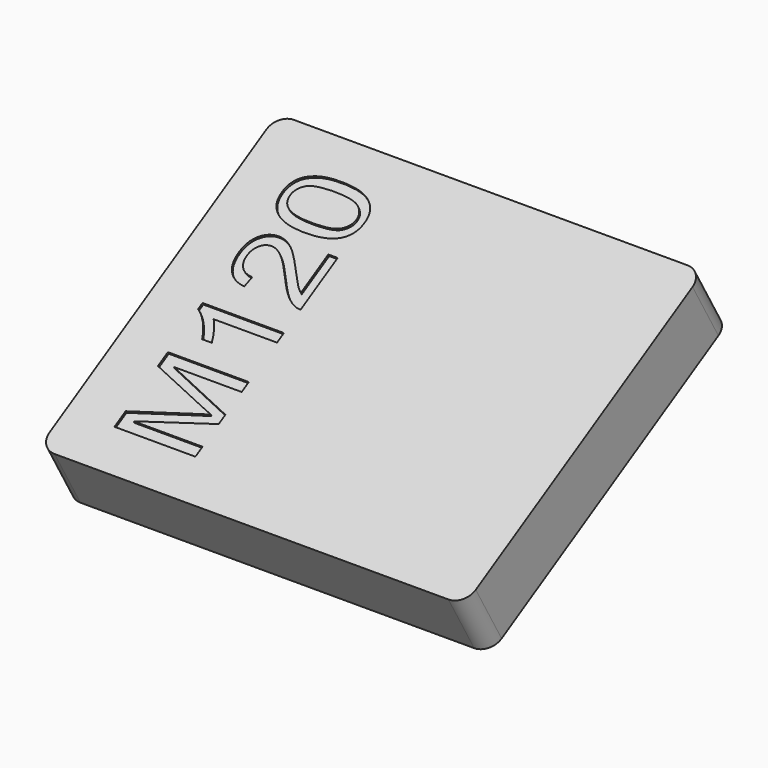
from build123d import *

# Parameters (mm, degrees)
PAD006_DEPTH            = 12
THICKNESS_T             = -1.6
POCKET005_DEPTH         = 0.4
BODY005_PLACEMENT_ANGLE = 30


with BuildPart() as part:
    # Sketch011 → Pad006 (new body)
    with BuildSketch(Plane.XY):
        with BuildLine():
            Line((-39.5, 29), (-39.5, -29))
            ThreePointArc((-39.5, -29), (-38.62132, -31.12132), (-36.5, -32))
            Line((-36.5, -32), (36.5, -32))
            ThreePointArc((36.5, -32), (38.62132, -31.12132), (39.5, -29))
            Line((39.5, -29), (39.5, 29))
            ThreePointArc((39.5, 29), (38.62132, 31.12132), (36.5, 32))
            Line((36.5, 32), (-36.5, 32))
            ThreePointArc((-36.5, 32), (-38.62132, 31.12132), (-39.5, 29))
        make_face()
    extrude(amount=PAD006_DEPTH)

    # Thickness
    thickness_openings = [part.faces().sort_by_distance(p)[0] for p in [
        (0, 0, 0),
    ]]
    offset(amount=THICKNESS_T, openings=thickness_openings)

    # Sketch012 (on Face9 of Thickness) → Pocket005 (cut)
    with BuildSketch(Plane(origin=(-25, 7, 12), x_dir=(0, 1, 0), z_dir=(0, 0, 1))):
        with BuildLine():
            Line((-31.53, -9.43), (-31.53, 5.57))
            Line((-31.53, 5.57), (-28.545807, 5.57))
            Line((-28.545807, 5.57), (-24.999522, -5.053183))
            add(Edge.make_bspline(
                [(-24.999522, -5.053183), (-24.50897, -6.537104), (-24.284133, -7.273614)],
                knots=[0, 0, 0, 1, 1, 1], degree=2))
            add(Edge.make_bspline(
                [(-24.284133, -7.273614), (-24.028637, -6.454664), (-23.486986, -4.868545)],
                knots=[0, 0, 0, 1, 1, 1], degree=2))
            Line((-23.486986, -4.868545), (-19.899822, 5.57))
            Line((-19.899822, 5.57), (-17.232444, 5.57))
            Line((-17.232444, 5.57), (-17.232444, -9.43))
            Line((-17.232444, -9.43), (-19.143554, -9.43))
            Line((-19.143554, -9.43), (-19.143554, 3.127458))
            Line((-19.143554, 3.127458), (-23.497206, -9.43))
            Line((-23.497206, -9.43), (-25.285678, -9.43))
            Line((-25.285678, -9.43), (-29.61889, 3.342075))
            Line((-29.61889, 3.342075), (-29.61889, -9.43))
            Line((-29.61889, -9.43), (-31.53, -9.43))
        make_face()
        with BuildLine():
            Line((-7.843817, -9.43), (-9.683388, -9.43))
            Line((-9.683388, -9.43), (-9.683388, 2.326223))
            add(Edge.make_bspline(
                [(-9.683388, 2.326223), (-10.347678, 1.695999), (-11.426212, 1.065094)],
                knots=[0, 0, 0, 1, 1, 1], degree=2))
            add(Edge.make_bspline(
                [(-11.426212, 1.065094), (-12.504064, 0.434871), (-13.362531, 0.119419)],
                knots=[0, 0, 0, 1, 1, 1], degree=2))
            Line((-13.362531, 0.119419), (-13.362531, 1.907209))
            add(Edge.make_bspline(
                [(-13.362531, 1.907209), (-11.819335, 2.630774), (-10.664493, 3.659571)],
                knots=[0, 0, 0, 1, 1, 1], degree=2))
            add(Edge.make_bspline(
                [(-10.664493, 3.659571), (-9.509651, 4.68905), (-9.029319, 5.657209)],
                knots=[0, 0, 0, 1, 1, 1], degree=2))
            Line((-9.029319, 5.657209), (-7.843817, 5.657209))
            Line((-7.843817, 5.657209), (-7.843817, -9.43))
        make_face()
        with BuildLine():
            Line((6.537542, -7.696715), (6.537542, -9.43))
            Line((6.537542, -9.43), (-3.365483, -9.43))
            add(Edge.make_bspline(
                [(-3.365483, -9.43), (-3.385923, -8.767754), (-3.150867, -8.155927)],
                knots=[0, 0, 0, 1, 1, 1], degree=2))
            add(Edge.make_bspline(
                [(-3.150867, -8.155927), (-2.772732, -7.146888), (-1.940156, -6.168508)],
                knots=[0, 0, 0, 1, 1, 1], degree=2))
            add(Edge.make_bspline(
                [(-1.940156, -6.168508), (-1.106899, -5.189448), (0.466957, -3.905154)],
                knots=[0, 0, 0, 1, 1, 1], degree=2))
            add(Edge.make_bspline(
                [(0.466957, -3.905154), (2.909499, -1.891165), (3.767965, -0.71452)],
                knots=[0, 0, 0, 1, 1, 1], degree=2))
            add(Edge.make_bspline(
                [(3.767965, -0.71452), (4.626432, 0.462124), (4.626432, 1.509998)],
                knots=[0, 0, 0, 1, 1, 1], degree=2))
            add(Edge.make_bspline(
                [(4.626432, 1.509998), (4.626432, 2.609653), (3.844273, 3.364559)],
                knots=[0, 0, 0, 1, 1, 1], degree=2))
            add(Edge.make_bspline(
                [(3.844273, 3.364559), (3.062796, 4.120145), (1.805756, 4.120145)],
                knots=[0, 0, 0, 1, 1, 1], degree=2))
            add(Edge.make_bspline(
                [(1.805756, 4.120145), (0.477177, 4.120145), (-0.319971, 3.312778)],
                knots=[0, 0, 0, 1, 1, 1], degree=2))
            add(Edge.make_bspline(
                [(-0.319971, 3.312778), (-1.117118, 2.506092), (-1.127338, 1.078721)],
                knots=[0, 0, 0, 1, 1, 1], degree=2))
            Line((-1.127338, 1.078721), (-3.018009, 1.274942))
            add(Edge.make_bspline(
                [(-3.018009, 1.274942), (-2.823832, 3.414295), (-1.556571, 4.535752)],
                knots=[0, 0, 0, 1, 1, 1], degree=2))
            add(Edge.make_bspline(
                [(-1.556571, 4.535752), (-0.289311, 5.657209), (1.846635, 5.657209)],
                knots=[0, 0, 0, 1, 1, 1], degree=2))
            add(Edge.make_bspline(
                [(1.846635, 5.657209), (4.003022, 5.657209), (5.260062, 4.454675)],
                knots=[0, 0, 0, 1, 1, 1], degree=2))
            add(Edge.make_bspline(
                [(5.260062, 4.454675), (6.517102, 3.25214), (6.517102, 1.474569)],
                knots=[0, 0, 0, 1, 1, 1], degree=2))
            add(Edge.make_bspline(
                [(6.517102, 1.474569), (6.517102, 0.570454), (6.149188, -0.303683)],
                knots=[0, 0, 0, 1, 1, 1], degree=2))
            add(Edge.make_bspline(
                [(6.149188, -0.303683), (5.781274, -1.177138), (4.927576, -2.143254)],
                knots=[0, 0, 0, 1, 1, 1], degree=2))
            add(Edge.make_bspline(
                [(4.927576, -2.143254), (4.07456, -3.108688), (2.091911, -4.794281)],
                knots=[0, 0, 0, 1, 1, 1], degree=2))
            add(Edge.make_bspline(
                [(2.091911, -4.794281), (0.436297, -6.193717), (-0.033815, -6.693127)],
                knots=[0, 0, 0, 1, 1, 1], degree=2))
            add(Edge.make_bspline(
                [(-0.033815, -6.693127), (-0.503928, -7.192536), (-0.810523, -7.696715)],
                knots=[0, 0, 0, 1, 1, 1], degree=2))
            Line((-0.810523, -7.696715), (6.537542, -7.696715))
        make_face()
        with BuildLine():
            add(Edge.make_bspline(
                [(8.512015, -2.02266), (8.512015, 0.643356), (9.058436, 2.26831)],
                knots=[0, 0, 0, 1, 1, 1], degree=2))
            add(Edge.make_bspline(
                [(9.058436, 2.26831), (9.605538, 3.893946), (10.68339, 4.775578)],
                knots=[0, 0, 0, 1, 1, 1], degree=2))
            add(Edge.make_bspline(
                [(10.68339, 4.775578), (11.761924, 5.657209), (13.397099, 5.657209)],
                knots=[0, 0, 0, 1, 1, 1], degree=2))
            add(Edge.make_bspline(
                [(13.397099, 5.657209), (14.60304, 5.657209), (15.512605, 5.170064)],
                knots=[0, 0, 0, 1, 1, 1], degree=2))
            add(Edge.make_bspline(
                [(15.512605, 5.170064), (16.422171, 4.682918), (17.014922, 3.765176)],
                knots=[0, 0, 0, 1, 1, 1], degree=2))
            add(Edge.make_bspline(
                [(17.014922, 3.765176), (17.607673, 2.848116), (17.944927, 1.530438)],
                knots=[0, 0, 0, 1, 1, 1], degree=2))
            add(Edge.make_bspline(
                [(17.944927, 1.530438), (18.282182, 0.21276), (18.282182, -2.02266)],
                knots=[0, 0, 0, 1, 1, 1], degree=2))
            add(Edge.make_bspline(
                [(18.282182, -2.02266), (18.282182, -4.667555), (17.740531, -6.29319)],
                knots=[0, 0, 0, 1, 1, 1], degree=2))
            add(Edge.make_bspline(
                [(17.740531, -6.29319), (17.198879, -7.918145), (16.120345, -8.805227)],
                knots=[0, 0, 0, 1, 1, 1], degree=2))
            add(Edge.make_bspline(
                [(16.120345, -8.805227), (15.042493, -9.691628), (13.397099, -9.691628)],
                knots=[0, 0, 0, 1, 1, 1], degree=2))
            add(Edge.make_bspline(
                [(13.397099, -9.691628), (11.230492, -9.691628), (9.993892, -8.133443)],
                knots=[0, 0, 0, 1, 1, 1], degree=2))
            add(Edge.make_bspline(
                [(9.993892, -8.133443), (8.512015, -6.25708), (8.512015, -2.02266)],
                knots=[0, 0, 0, 1, 1, 1], degree=2))
        make_face()
        with BuildLine():
            add(Edge.make_bspline(
                [(10.402685, -2.017209), (10.402685, -5.709978), (11.265921, -6.932271)],
                knots=[0, 0, 0, 1, 1, 1], degree=2))
            add(Edge.make_bspline(
                [(11.265921, -6.932271), (12.129838, -8.154564), (13.397099, -8.154564)],
                knots=[0, 0, 0, 1, 1, 1], degree=2))
            add(Edge.make_bspline(
                [(13.397099, -8.154564), (14.664359, -8.154564), (15.527595, -6.927502)],
                knots=[0, 0, 0, 1, 1, 1], degree=2))
            add(Edge.make_bspline(
                [(15.527595, -6.927502), (16.391512, -5.699758), (16.391512, -2.017209)],
                knots=[0, 0, 0, 1, 1, 1], degree=2))
            add(Edge.make_bspline(
                [(16.391512, -2.017209), (16.391512, 1.685779), (15.527595, 2.902622)],
                knots=[0, 0, 0, 1, 1, 1], degree=2))
            add(Edge.make_bspline(
                [(15.527595, 2.902622), (14.664359, 4.120145), (13.376659, 4.120145)],
                knots=[0, 0, 0, 1, 1, 1], degree=2))
            add(Edge.make_bspline(
                [(13.376659, 4.120145), (12.109399, 4.120145), (11.353131, 3.046381)],
                knots=[0, 0, 0, 1, 1, 1], degree=2))
            add(Edge.make_bspline(
                [(11.353131, 3.046381), (10.402685, 1.67556), (10.402685, -2.017209)],
                knots=[0, 0, 0, 1, 1, 1], degree=2))
        make_face(mode=Mode.SUBTRACT)
    extrude(amount=-POCKET005_DEPTH, mode=Mode.SUBTRACT)


with BuildPart() as part_1:
    # Body005 placement: moved
    add(part.part.moved(Location((34, -63.937892, 16.350669))).rotate(Axis((34, -63.937892, 16.350669), (1, 0, 0)), BODY005_PLACEMENT_ANGLE))


solid = part_1.part
